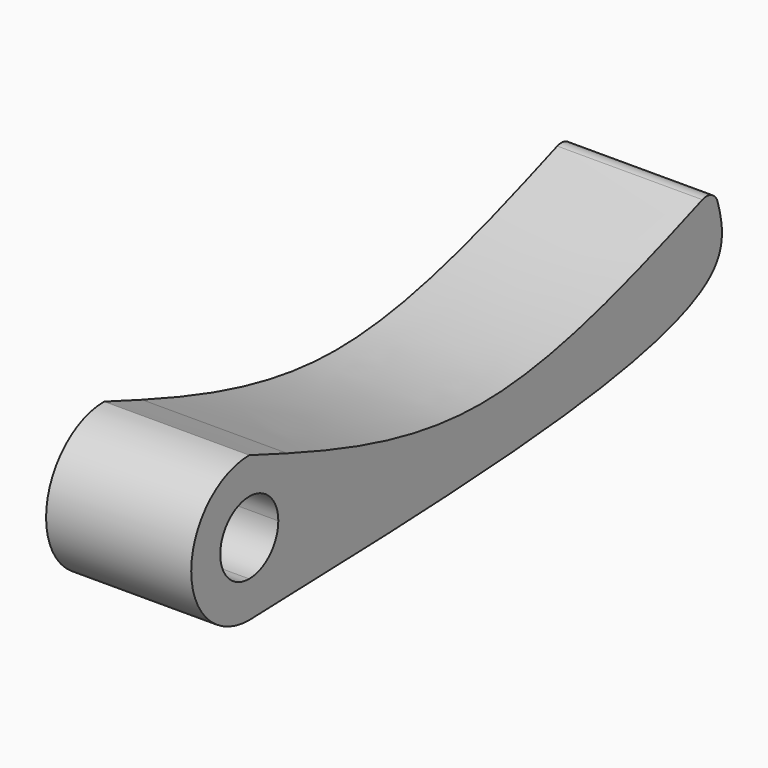
from build123d import *

# Parameters (mm, degrees)
F1_DEPTH = 10
F2_R     = 1


with BuildPart() as f1:
    # F0 (on Right) → F1 (new body)
    with BuildSketch(Plane.YZ):
        with BuildLine():
            ThreePointArc((0, 10), (-5, 5), (0, 0))
            Line((0, 0), (0, 2.5))
            ThreePointArc((0, 2.5), (-2.5, 5), (0, 7.5))
            Line((0, 7.5), (0, 10))
        make_face()
        with BuildLine():
            add(Edge.make_bspline(
                [(0, 0), (0.0972149626, 0.0028374259), (0.1944299252, 0.0056748519), (0.2916426571, 0.0085127907)],
                knots=[0, 0, 0, 0, 0.0039364964, 0.0039364964, 0.0039364964, 0.0039364964], degree=3))
            ThreePointArc((0, 0), (0.1458834355, 0.0021286508), (0.2916426571, 0.0085127907))
        make_face()
        with BuildLine():
            Line((0, 2.5), (0, 0))
            add(Edge.make_bspline(
                [(0, 0), (0.0972149626, 0.0028374259), (0.1944299252, 0.0056748519), (0.2916426571, 0.0085127907)],
                knots=[0, 0, 0, 0, 0.0039364964, 0.0039364964, 0.0039364964, 0.0039364964], degree=3))
            ThreePointArc((0.2916426571, 0.0085127907), (4.7355888184, 3.3955690906), (3.265578635, 8.7862905566))
            add(Edge.make_bspline(
                [(0, 10), (1.0885262117, 9.5918026706), (2.1770524233, 9.1836053413), (3.265578635, 8.7862905566)],
                knots=[0, 0, 0, 0, 0.0816394659, 0.0816394659, 0.0816394659, 0.0816394659], degree=3))
            Line((0, 10), (0, 7.5))
            ThreePointArc((0, 7.5), (1.767766953, 6.767766953), (2.5, 5))
            ThreePointArc((2.5, 5), (1.767766953, 3.232233047), (0, 2.5))
        make_face()
        with BuildLine():
            ThreePointArc((3.265578635, 8.7862905566), (4.7355888184, 3.3955690906), (0.2916426571, 0.0085127907))
            add(Edge.make_bspline(
                [(0.2916426571, 0.0085127907), (18.4576336422, 0.538833975), (42.9501889839, 1.2811774104), (40.6115271438, 8.1927270746), (40, 10)],
                knots=[0.0039364964, 0.0039364964, 0.0039364964, 0.0039364964, 0.739543418, 1, 1, 1, 1], degree=3))
            add(Edge.make_bspline(
                [(3.265578635, 8.7862905566), (8.84371909, 6.7502553651), (21.0885262117, 2.9081973294), (33.3333333333, 7.5), (40, 10)],
                knots=[0.0816394659, 0.0816394659, 0.0816394659, 0.0816394659, 0.5, 1, 1, 1, 1], degree=3))
        make_face()
    extrude(amount=F1_DEPTH)

    # F2
    f2_edges = [f1.edges().sort_by_distance(p)[0] for p in [
        (5, 40, 10),
    ]]
    fillet(f2_edges, radius=F2_R)


solid = f1.part
